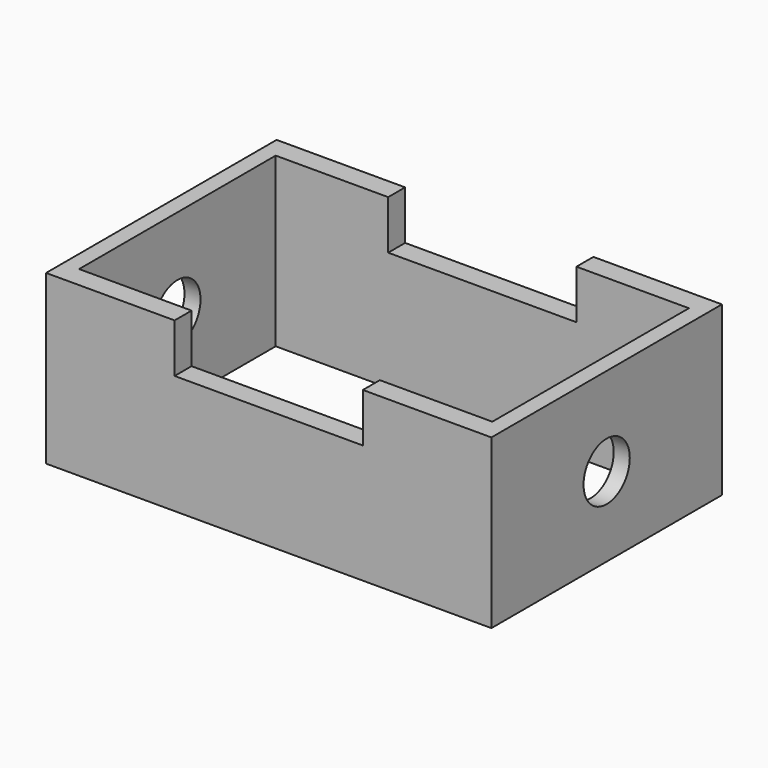
from build123d import *

# Parameters (mm, degrees)
F0_W     = 236.464172
F0_H     = 153.010204
F1_DEPTH = 89.154
F2_W     = 219.41261
F2_H     = 130.49218
F3_DEPTH = 170.434
F4_W     = 99.966138
F4_H     = 51.93973
F5_DEPTH = 169.926
F6_R     = 15.346297
F7_DEPTH = 355.854


with BuildPart() as f1:
    # F0 (on Top) → F1 (new body)
    with BuildSketch(Plane.XY):
        Rectangle(F0_W, F0_H)
    extrude(amount=F1_DEPTH)

    # F2 (on face) → F3 (cut)
    with BuildSketch(Plane.XY.offset(89.154)):
        Rectangle(F2_W, F2_H)
    extrude(amount=-F3_DEPTH, mode=Mode.SUBTRACT)

    # F4 (on face) → F5 (cut)
    with BuildSketch(Plane.XZ.offset(76.505102)):
        with Locations((0, 89.154)):
            Rectangle(F4_W, F4_H)
    extrude(amount=-F5_DEPTH, mode=Mode.SUBTRACT)

    # F6 (on face) → F7 (cut)
    with BuildSketch(Plane.YZ.offset(118.232086)):
        with Locations((0, 42.181458)):
            Circle(F6_R)
    extrude(amount=-F7_DEPTH, mode=Mode.SUBTRACT)


solid = f1.part
